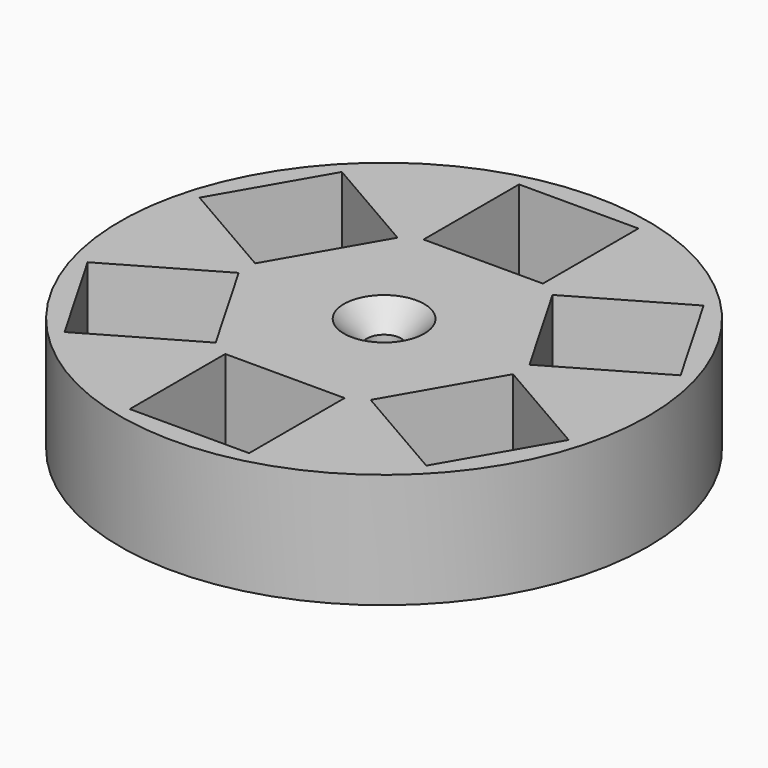
from build123d import *

# Parameters (mm, degrees)
F0_R     = 11.5
F0_W     = 5.2
F0_H     = 5.2
F0_R_2   = 0.75
F1_DEPTH = 5
F2_SIZE  = 1


with BuildPart() as f1:
    # F0 (on Top) → F1 (new body)
    with BuildSketch(Plane.XY):
        Circle(F0_R)
        Polygon((-7.879869, -7.551666), (-10.479869, -3.048334), (-5.976537, -0.448334), (-3.376537, -4.951666), align=None, mode=Mode.SUBTRACT)
        with Locations((0, -8)):
            Rectangle(F0_W, F0_H, mode=Mode.SUBTRACT)
        Polygon((10.479869, -3.048334), (7.879869, -7.551666), (3.376537, -4.951666), (5.976537, -0.448334), align=None, mode=Mode.SUBTRACT)
        Polygon((-10.479869, 3.048334), (-7.879869, 7.551666), (-3.376537, 4.951666), (-5.976537, 0.448334), align=None, mode=Mode.SUBTRACT)
        Circle(F0_R_2, mode=Mode.SUBTRACT)
        Polygon((7.879869, 7.551666), (10.479869, 3.048334), (5.976537, 0.448334), (3.376537, 4.951666), align=None, mode=Mode.SUBTRACT)
        with Locations((0, 8)):
            Rectangle(F0_W, F0_H, mode=Mode.SUBTRACT)
    extrude(amount=F1_DEPTH)

    # F2
    f2_edges = [f1.edges().sort_by_distance(p)[0] for p in [
        (-0.75, 0, 5),
        (-0.75, 0, 0),
    ]]
    chamfer(f2_edges, length=F2_SIZE)


solid = f1.part
